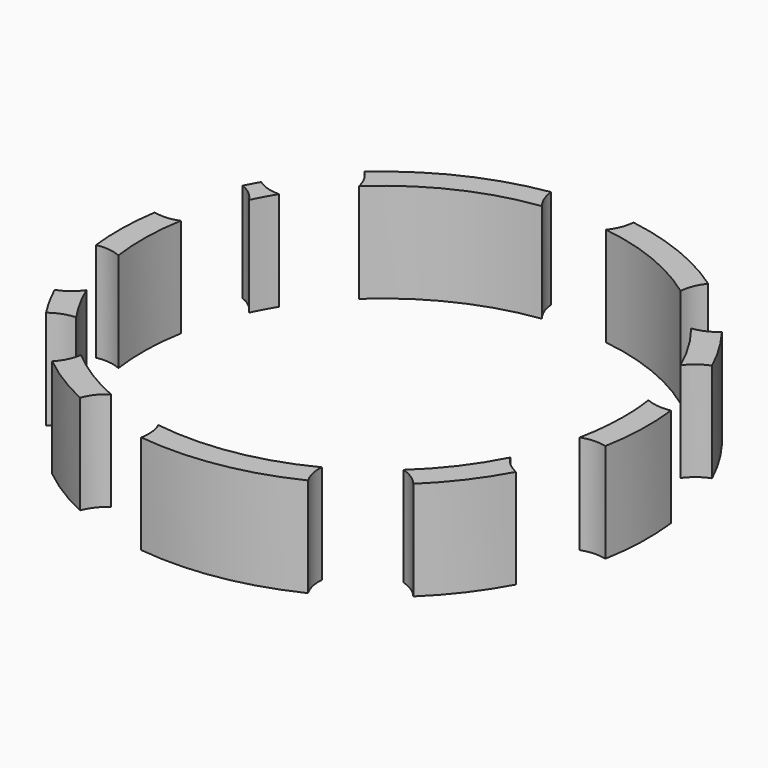
from build123d import *

# Parameters (mm, degrees)
F1_DEPTH = 38.1
F3_DEPTH = 38.1


with BuildPart() as f1:
    # F0 (on Top) → F1 (new body)
    with BuildSketch(Plane.XY):
        with BuildLine():
            ThreePointArc((-67.8041513063, 75.6647676639), (-66.4562381049, 54.1511222593), (-87.7988228676, 51.1265753113))
            ThreePointArc((-87.7988228676, 51.1265753113), (-89.2677155553, 48.5163370375), (-90.659028675, 45.8639348475))
            ThreePointArc((-90.659028675, 45.8639348475), (-81.5878303294, 26.3097238134), (-100.3735879412, 15.7385782016))
            ThreePointArc((-100.3735879412, 15.7385782016), (-101.5802166535, 2.0048901786), (-100.916440548, -11.7657140508))
            ThreePointArc((-100.916440548, -11.7657140508), (-82.5624364225, -23.0698876674), (-92.3981530662, -42.2509326519))
            ThreePointArc((-92.3981530662, -42.2509326519), (-89.0235438809, -48.9629312326), (-85.1621957502, -55.4072234913))
            ThreePointArc((-85.1621957502, -55.4072234913), (-63.6961220061, -57.372290057), (-63.9781454748, -78.9262751029))
            ThreePointArc((-63.9781454748, -78.9262751029), (-53.7492736238, -86.2181859291), (-42.6987324191, -92.1920725974))
            ThreePointArc((-42.6987324191, -92.1920725974), (-23.4701922978, -82.4495342528), (-12.2552016299, -100.8581679043))
            ThreePointArc((-12.2552016299, -100.8581679043), (16.6778107168, -100.2218071564), (44.2576636355, -91.4539185029))
            ThreePointArc((44.2576636355, -91.4539185029), (48.9066257924, -70.4053803242), (70.2540307836, -73.3957162146))
            ThreePointArc((70.2540307836, -73.3957162146), (80.8463551672, -61.5339488102), (89.4579740667, -48.164622659))
            ThreePointArc((89.4579740667, -48.164622659), (80.8891972639, -28.3850909988), (99.9388385083, -18.2972281402))
            ThreePointArc((99.9388385083, -18.2972281402), (101.5505075411, -3.1708702514), (100.885685865, 12.0265700656))
            ThreePointArc((100.885685865, 12.0265700656), (82.5025188361, 23.2832560158), (92.2886146042, 42.4896647955))
            ThreePointArc((92.2886146042, 42.4896647955), (87.1425649708, 52.2372795071), (80.9708364728, 61.3700549201))
            ThreePointArc((80.9708364728, 61.3700549201), (59.4191195204, 61.7911309204), (58.155180645, 83.3098731493))
            ThreePointArc((58.155180645, 83.3098731493), (37.9604558259, 94.2420489669), (15.8264791945, 100.359765625))
            ThreePointArc((15.8264791945, 100.359765625), (0, 85.725), (-15.8264791945, 100.359765625))
            ThreePointArc((-15.8264791945, 100.359765625), (-43.6002445012, 91.7691597403), (-67.8041513063, 75.6647676639))
        make_face()
    extrude(amount=F1_DEPTH)

    # F2 (on face) → F3 (cut)
    with BuildSketch(Plane.XY.offset(38.1)):
        with BuildLine():
            ThreePointArc((90.4313428025, -18.7267977358), (91.8690762665, -9.4124141667), (92.349990333, 0))
            ThreePointArc((92.349990333, 0), (92.1180793924, 6.5406546738), (91.4235113283, 13.0484593306))
            ThreePointArc((91.4235113283, 13.0484593306), (82.5025188361, 23.2832560158), (84.7566975295, 36.6718275846))
            ThreePointArc((84.7566975295, 36.6718275846), (79.2088093764, 47.4814198573), (72.289838517, 57.4691218106))
            ThreePointArc((72.289838517, 57.4691218106), (59.4191195204, 61.7911309204), (54.5968679125, 74.4829022571))
            ThreePointArc((54.5968679125, 74.4829022571), (34.5044067772, 85.6619321954), (12.273038885, 91.5308321334))
            ThreePointArc((12.273038885, 91.5308321334), (0, 85.725), (-12.273038885, 91.5308321334))
            ThreePointArc((-12.273038885, 91.5308321334), (-39.6307299036, 83.4141832173), (-63.2043854773, 67.3329515983))
            ThreePointArc((-63.2043854773, 67.3329515983), (-66.4562381049, 54.1511222593), (-78.7097533199, 48.3041969896))
            ThreePointArc((-78.7097533199, 48.3041969896), (-81.1404790215, 44.0992446496), (-83.3467686042, 39.7723129544))
            ThreePointArc((-83.3467686042, 39.7723129544), (-81.5878303294, 26.3097238134), (-90.8801664091, 16.4108521395))
            ThreePointArc((-90.8801664092, 16.4108521395), (-92.3320081296, 1.8223581557), (-91.4569394823, -12.8120620912))
            ThreePointArc((-91.4569394823, -12.8120620912), (-82.5624364225, -23.0698876674), (-84.8512205342, -36.4525868542))
            ThreePointArc((-84.8512205342, -36.4525868542), (-80.918537567, -44.5051793898), (-76.2238716556, -52.1386814594))
            ThreePointArc((-76.2238716556, -52.1386814594), (-63.6961220061, -57.372290057), (-59.7961703598, -70.3771179063))
            ThreePointArc((-59.7961703598, -70.3771179063), (-48.8557568855, -78.3685889477), (-36.8638386851, -84.6733612885))
            ThreePointArc((-36.8638386851, -84.6733612885), (-23.4701922978, -82.4495342528), (-13.2556417779, -91.3937015092))
            ThreePointArc((-13.2556417779, -91.3937015092), (15.1594060873, -91.0972728548), (42.1391214369, -82.175514352))
            ThreePointArc((42.1391214369, -82.175514352), (48.9066257924, -70.4053803242), (62.2986541388, -68.1718300106))
            ThreePointArc((62.2986541388, -68.1718300106), (73.4858279346, -55.9316887576), (82.3036944949, -41.8882153712))
            ThreePointArc((82.3036944949, -41.8882153712), (80.8891972639, -28.3850909988), (90.4313428025, -18.7267977358))
        make_face()
    extrude(amount=-F3_DEPTH, mode=Mode.SUBTRACT)


solid = f1.part
